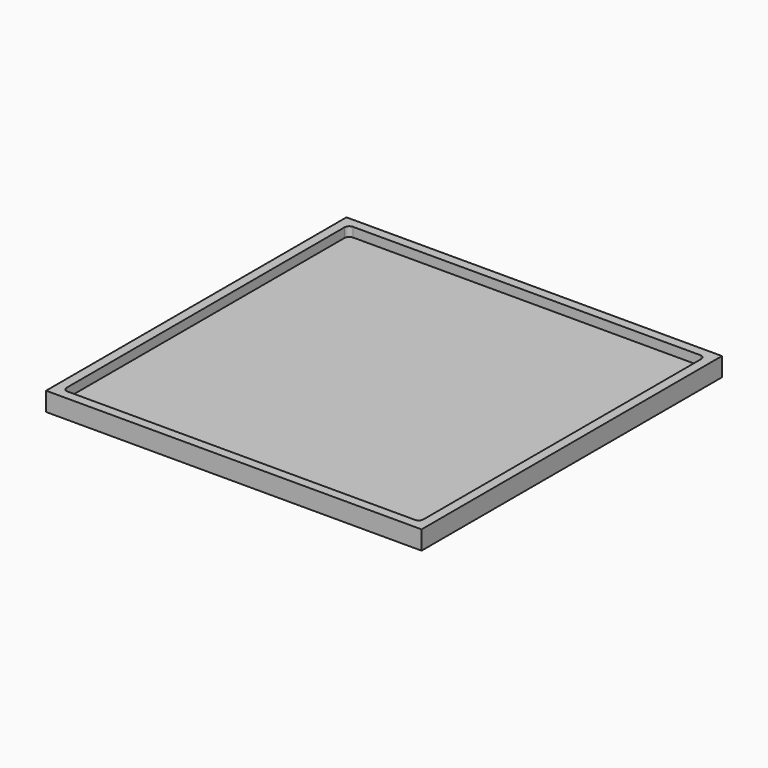
from build123d import *

# Parameters (mm, degrees)
F0_W     = 1000
F0_H     = 1000
F1_DEPTH = 50
F2_T     = -25
F3_R     = 12.5


with BuildPart() as f1:
    # F0 (on Top) → F1 (new body)
    with BuildSketch(Plane.XY):
        with Locations((500, 500)):
            Rectangle(F0_W, F0_H)
    extrude(amount=F1_DEPTH)

    # F2
    f2_openings = [f1.faces().sort_by_distance(p)[0] for p in [
        (500, 500, 50),
    ]]
    offset(amount=F2_T, openings=f2_openings)

    # F3
    f3_edges = [f1.edges().sort_by_distance(p)[0] for p in [
        (25, 975, 37.5),
        (975, 975, 37.5),
        (975, 25, 37.5),
        (25, 25, 37.5),
    ]]
    fillet(f3_edges, radius=F3_R)


solid = f1.part
